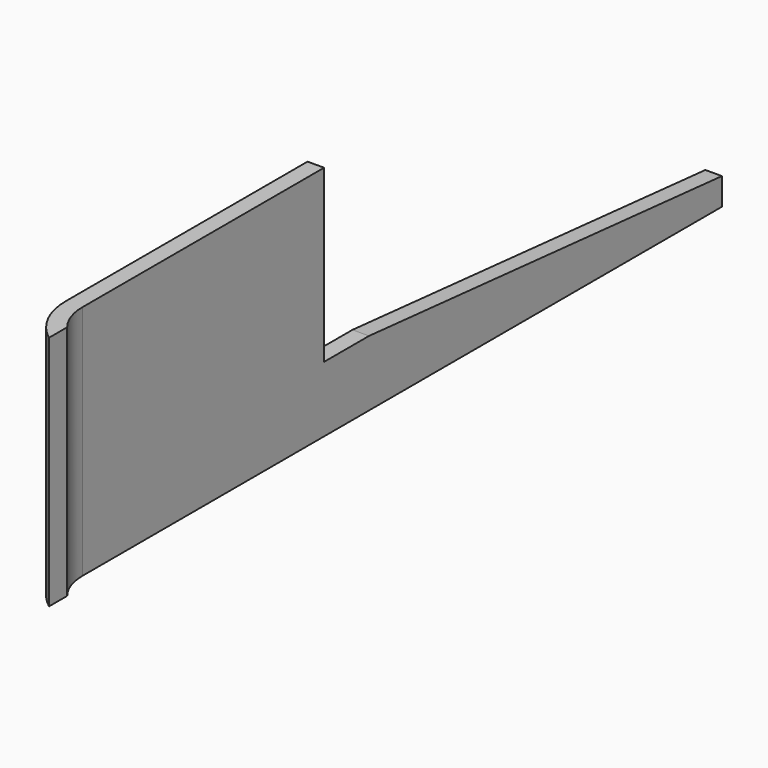
from build123d import *

# Parameters (mm, degrees)
F1_DEPTH = 11.9
F3_DEPTH = 31
F4_SIZE2 = 80.0103661193
F4_SIZE  = 7


with BuildPart() as f1:
    # F0 (on Top) → F1 (new body)
    with BuildSketch(Plane.XY):
        with BuildLine():
            Line((0, 76.7002296448), (-3, 76.7002296448))
            Line((-3, 76.7002296448), (-3, -68.2997703552))
            ThreePointArc((-3, -68.2997703552), (-1.6386286937, -74.0342530307), (2.1549561061, -78.5449445248))
            Line((2.1549561061, -78.5449445248), (2.1549561061, -74.430949986))
            ThreePointArc((2.1549561061, -74.430949986), (0.554422627, -71.5492010547), (0, -68.2997703552))
            Line((0, -68.2997703552), (0, 76.7002296448))
        make_face()
    extrude(amount=F1_DEPTH)

    # F2 (on face) → F3 (join)
    with BuildSketch(Plane.XY.offset(11.9)):
        with BuildLine():
            Line((0, -13.4931067005), (-3, -13.4931067005))
            Line((-3, -13.4931067005), (-3, -68.2997703552))
            ThreePointArc((-3, -68.2997703552), (-1.6386286937, -74.0342530307), (2.1549561061, -78.5449445248))
            Line((2.1549561061, -78.5449445248), (2.1549561061, -74.430949986))
            ThreePointArc((2.1549561061, -74.430949986), (0.554422627, -71.5492010547), (0, -68.2997703552))
            Line((0, -68.2997703552), (0, -13.4931067005))
        make_face()
    extrude(amount=F3_DEPTH)

    # F4
    f4_edges = [f1.edges().sort_by_distance(p)[0] for p in [
        (-1.5, 76.70023, 11.9),
    ]]
    f4_side = f1.faces().sort_by_distance((-1.5, 76.70023, 5.95))[0]
    chamfer(f4_edges, length=F4_SIZE, length2=F4_SIZE2, reference=f4_side)


solid = f1.part
